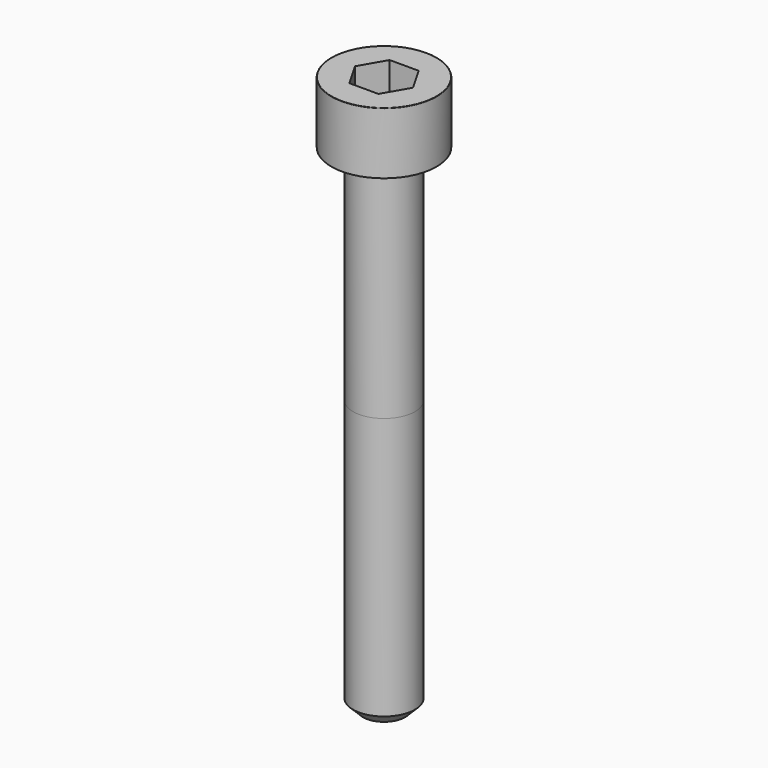
from build123d import *

# Parameters (mm, degrees)
POCKET_DEPTH = 4.06


with BuildPart() as part:
    # Sketch → Revolve (revolve)
    with BuildSketch(Plane.YZ):
        with BuildLine():
            Line((2.499, 0), (4.25, 0))
            Line((4.25, 0), (4.25, 4.97229))
            ThreePointArc((4.25, 4.97229), (4.241884, 4.991884), (4.22229, 5))
            Line((4.22229, 5), (0, 5))
            Line((0, -40), (0, 5))
            Line((1.7, -40), (0, -40))
            Line((2.5, -39.2), (1.7, -40))
            Line((2.5, -18), (2.5, -39.2))
            Line((2.499, 0), (2.5, -18))
        make_face()
    revolve(axis=Axis((0, 0, 0), (0, 0, 1)))

    # Sketch001 → Pocket (cut)
    with BuildSketch(Plane.XY.offset(5)):
        Polygon((2.344042, 0), (1.172021, 2.03), (-1.172021, 2.03), (-2.344042, 0), (-1.172021, -2.03), (1.172021, -2.03), align=None)
    extrude(amount=-POCKET_DEPTH, mode=Mode.SUBTRACT)


solid = part.part
